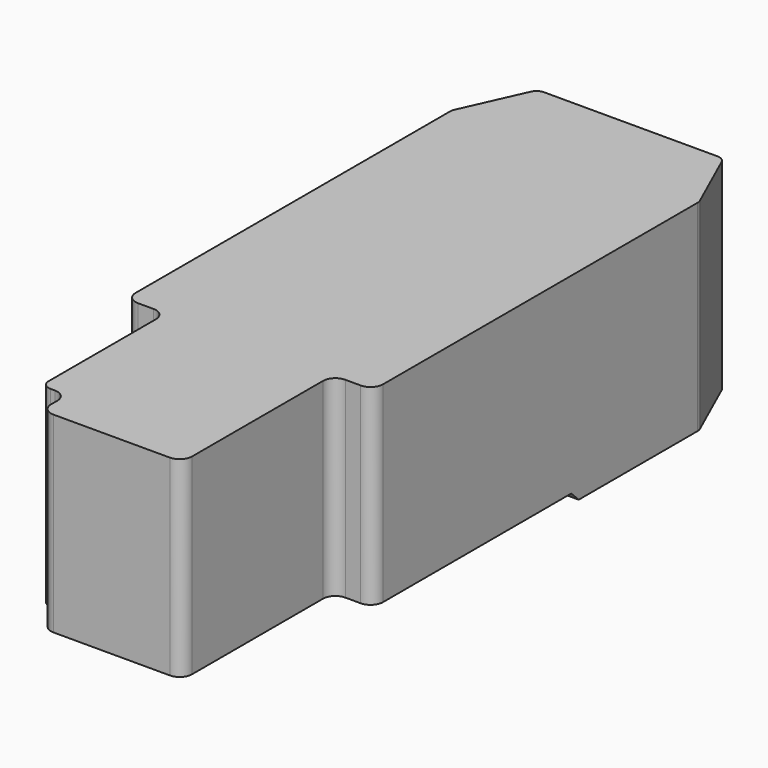
from build123d import *

# Parameters (mm, degrees)
F1_DEPTH = 65
F2_W     = 76.1
F2_H     = 3
F2_W_2   = 73.784338
F3_DEPTH = 80.001


with BuildPart() as f1:
    # F0 (on Top) → F1 (new body)
    with BuildSketch(Plane.XY):
        with BuildLine():
            Line((0, 43.127878), (-28.057464, 43.127878))
            ThreePointArc((-28.057464, 43.127878), (-29.688022, 42.646068), (-30.794834, 41.355399))
            Line((-30.794834, 41.355399), (-39.73737, 21.413543))
            ThreePointArc((-39.73737, 21.413543), (-39.933608, 20.813674), (-40, 20.186023))
            Line((-40, 20.186023), (-40, -106.972122))
            ThreePointArc((-40, -106.972122), (-38.828427, -109.800549), (-36, -110.972122))
            Line((-36, -110.972122), (-31, -110.972122))
            ThreePointArc((-31, -110.972122), (-28.171573, -112.143695), (-27, -114.972122))
            Line((-27, -114.972122), (-27, -158.33496))
            ThreePointArc((-27, -158.33496), (-26.12132, -160.45628), (-24, -161.33496))
            Line((-24, -161.33496), (-22.6, -161.33496))
            ThreePointArc((-22.6, -161.33496), (-19.771573, -162.506533), (-18.6, -165.33496))
            Line((-18.6, -165.33496), (-18.6, -167.872122))
            ThreePointArc((-18.6, -167.872122), (-17.428427, -170.700549), (-14.6, -171.872122))
            Line((-14.6, -171.872122), (0, -171.872122))
            Line((0, -171.872122), (23, -171.872122))
            ThreePointArc((23, -171.872122), (25.828427, -170.700549), (27, -167.872122))
            Line((27, -167.872122), (27, -114.972122))
            ThreePointArc((27, -114.972122), (28.171573, -112.143695), (31, -110.972122))
            Line((31, -110.972122), (36, -110.972122))
            ThreePointArc((36, -110.972122), (38.828427, -109.800549), (40, -106.972122))
            Line((40, -106.972122), (40, 20.186023))
            ThreePointArc((40, 20.186023), (39.933608, 20.813674), (39.73737, 21.413543))
            Line((39.73737, 21.413543), (30.794834, 41.355399))
            ThreePointArc((30.794834, 41.355399), (29.688022, 42.646068), (28.057464, 43.127878))
            Line((28.057464, 43.127878), (0, 43.127878))
        make_face()
    extrude(amount=F1_DEPTH)

    # F2 (on face) → F3 (cut, through all)
    with BuildSketch(Plane(origin=(-40, 0, 0), x_dir=(0, -1, 0), z_dir=(-1, 0, 0))):
        with Locations((68.922122, 1.5)):
            Rectangle(F2_W, F2_H)
        Polygon((30.872122, 0), (30.872122, 3), (27.872122, 0), align=None)
        with Locations((143.864291, 1.5)):
            Rectangle(F2_W_2, F2_H)
    extrude(amount=-F3_DEPTH, mode=Mode.SUBTRACT)


solid = f1.part
